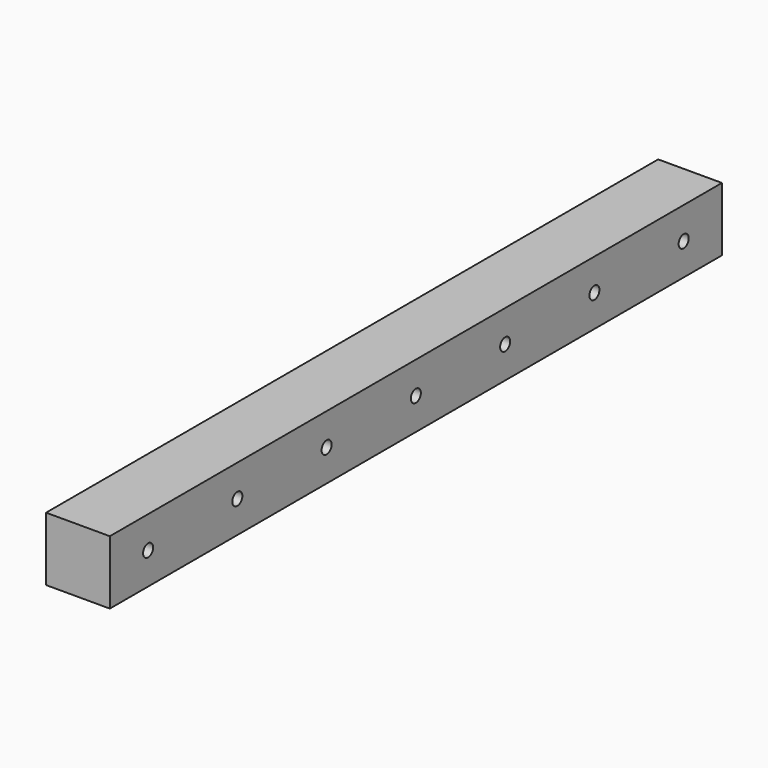
from build123d import *

# Parameters (mm, degrees)
F0_W     = 25.4
F0_H     = 25.4
F1_DEPTH = 304.8
F3_D     = 5


with BuildPart() as f1:
    # F0 (on Front) → F1 (new body)
    with BuildSketch(Plane.XZ):
        Rectangle(F0_W, F0_H)
    extrude(amount=F1_DEPTH)

    # F3 (through all)
    with Locations(Plane.YZ.offset(12.7)):
        with Locations((-285.75, 0), (-241.3, 0), (-196.85, 0), (-152.4, 0), (-107.95, 0), (-63.5, 0), (-19.05, 0)):
            Hole(F3_D / 2)


solid = f1.part
